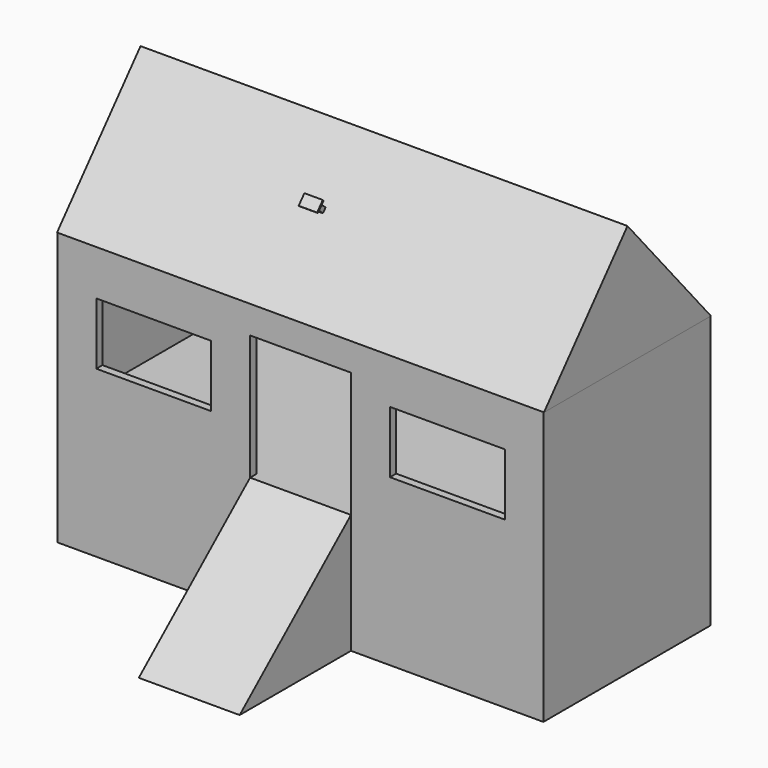
from build123d import *

# Parameters (mm, degrees)
F0_W      = 44.3399958313
F0_H      = 14.4718540832
F1_DEPTH  = 38.1
F2_W      = 34.0127944946
F2_H      = 1.2406939641
F2_W_2    = 18.4130221605
F3_DEPTH  = 25.4
F4_W      = 20.9599845111
F4_H      = 11.3026611507
F5_DEPTH  = 25.4
F6_W      = 18.4130221605
F6_H      = 1.415140456
F7_DEPTH  = 2.54
F8_W      = 18.4130221605
F8_H      = 21.8460503966
F9_DEPTH  = 25.4
F11_DEPTH = 25.4
F12_W     = 88.6799916625
F12_H     = 38.1
F13_DEPTH = 2.54
F15_DEPTH = 44.45
F16_W     = 31.7063815892
F16_H     = 38.1
F17_DEPTH = 25.4
F18_W     = 1.5490213409
F18_H     = 0.9214421734
F19_DEPTH = 2.54
F20_W     = 0.7745106705
F20_H     = 0.4545422271
F20_H_2   = 0.4668999463
F21_DEPTH = 0.254


with BuildPart() as f1:
    # F0 (on Front) → F1 (new body)
    with BuildSketch(Plane.XZ):
        with Locations((22.1699979156, -7.2359270416)):
            Rectangle(F0_W, F0_H)
        with Locations((-22.1699979156, -7.2359270416)):
            Rectangle(F0_W, F0_H)
        Polygon((44.3399958313, -14.4718540832), (0, -14.4718540832), (-44.3399958313, -14.4718540832), (-76.0463774204, -14.4718540832), (-76.0463774204, -21.8460503966), (0, -21.8460503966), (76.0463774204, -21.8460503966), (76.0463774204, -14.4718540832), align=None)
    extrude(amount=F1_DEPTH)

    # F2 (on face) → F3 (join)
    with BuildSketch(Plane.XY):
        with Locations((-26.2129083276, -0.620346982)):
            Rectangle(F2_W, F2_H)
        with Locations((0, -0.620346982)):
            Rectangle(F2_W_2, F2_H)
        with Locations((26.2129083276, -0.620346982)):
            Rectangle(F2_W, F2_H)
        Polygon((-43.2193055749, -1.2406939641), (-43.2193055749, 0), (-44.3399958313, 0), (-44.3399958313, -36.684859544), (-43.2193055749, -36.684859544), align=None)
        Polygon((-44.3399958313, -38.1), (-9.2065110803, -38.1), (-9.2065110803, -36.684859544), (-43.2193055749, -36.684859544), (-44.3399958313, -36.684859544), align=None)
        Polygon((44.3399958313, -38.1), (44.3399958313, -36.684859544), (43.2193055749, -36.684859544), (9.2065110803, -36.684859544), (9.2065110803, -38.1), align=None)
        Polygon((44.3399958313, -36.684859544), (44.3399958313, 0), (43.2193055749, 0), (43.2193055749, -1.2406939641), (43.2193055749, -36.684859544), align=None)
    extrude(amount=F3_DEPTH)

    # F4 (on face) → F5 (cut)
    with BuildSketch(Plane.XZ.offset(38.1)):
        with Locations((-26.8112961203, 14.027569443)):
            Rectangle(F4_W, F4_H)
        with Locations((26.8112961203, 14.027569443)):
            Rectangle(F4_W, F4_H)
    extrude(amount=-F5_DEPTH, mode=Mode.SUBTRACT)

    # F6 (on face) → F7 (join)
    with BuildSketch(Plane.XY.offset(25.4)):
        with Locations((0, -37.392429772)):
            Rectangle(F6_W, F6_H)
    extrude(amount=-F7_DEPTH)

    # F8 (on face) → F9 (join)
    with BuildSketch(Plane.XZ.offset(38.1)):
        with Locations((0, -10.9230251983)):
            Rectangle(F8_W, F8_H)
    extrude(amount=F9_DEPTH)

    # F10 (on face) → F11 (cut)
    with BuildSketch(Plane(origin=(-9.2065110803, 0, 0), x_dir=(0, -1, 0), z_dir=(-1, 0, 0))):
        Polygon((63.5, 0), (38.1, 0), (63.5, -21.8460503966), align=None)
    extrude(amount=-F11_DEPTH, mode=Mode.SUBTRACT)

    # F12 (on face) → F13 (join)
    with BuildSketch(Plane.XY.offset(25.4)):
        with Locations((0, -19.05)):
            Rectangle(F12_W, F12_H)
    extrude(amount=F13_DEPTH)

    # F14 (on Right) → F15 (join, symmetric)
    with BuildSketch(Plane.YZ):
        Polygon((-38.1, 27.94), (-19.05, 27.94), (-19.05, 50.1542687416), align=None)
        Polygon((-19.05, 27.94), (0, 27.94), (-19.05, 50.1542687416), align=None)
    extrude(amount=F15_DEPTH, both=True)

    # F16 (on face) → F17 (cut)
    with BuildSketch(Plane.XY.offset(-14.4718540832)):
        with Locations((60.1931866258, -19.05)):
            Rectangle(F16_W, F16_H)
        with Locations((-60.1931866258, -19.05)):
            Rectangle(F16_W, F16_H)
    extrude(amount=-F17_DEPTH, mode=Mode.SUBTRACT)

    # F18 (on face) → F19 (join)
    with BuildSketch(Plane(origin=(0, -35.7612087902, 30.6672722554), x_dir=(1, 0, 0), z_dir=(0, -0.7591012698, 0.650972551))):
        with Locations((-4.9122394994, 12.6880933531)):
            Rectangle(F18_W, F18_H)
    extrude(amount=F19_DEPTH)

    # F20 (on face) → F21 (join)
    with BuildSketch(Plane(origin=(0, -37.6893260156, 32.3207425348), x_dir=(1, 0, 0), z_dir=(0, -0.7591012698, 0.650972551))):
        Polygon((-5.6867501698, 13.1488144398), (-4.9122394994, 13.1488144398), (-4.9122394994, 13.6726424098), (-6.5931216814, 13.6726424098), (-6.5931216814, 12.6819144934), (-5.6867501698, 12.6819144934), align=None)
        Polygon((-4.9122394994, 13.1488144398), (-4.1377288289, 13.1488144398), (-4.1377288289, 12.6819144934), (-3.2313573174, 12.6819144934), (-3.2313573174, 13.6726424098), (-4.9122394994, 13.6726424098), align=None)
        Polygon((-3.2313573174, 12.6819144934), (-4.1377288289, 12.6819144934), (-4.1377288289, 12.2273722664), (-4.9122394994, 12.2273722664), (-4.9122394994, 11.6911865771), (-3.2313573174, 11.6911865771), align=None)
        with Locations((-5.2994948346, 12.4546433799)):
            Rectangle(F20_W, F20_H)
        with Locations((-5.2994948346, 12.9153644666)):
            Rectangle(F20_W, F20_H_2)
        with Locations((-4.5249841642, 12.9153644666)):
            Rectangle(F20_W, F20_H_2)
        with Locations((-4.5249841642, 12.4546433799)):
            Rectangle(F20_W, F20_H)
        Polygon((-5.6867501698, 12.2273722664), (-5.6867501698, 12.6819144934), (-6.5931216814, 12.6819144934), (-6.5931216814, 11.6911865771), (-4.9122394994, 11.6911865771), (-4.9122394994, 12.2273722664), align=None)
    extrude(amount=F21_DEPTH)


solid = f1.part
